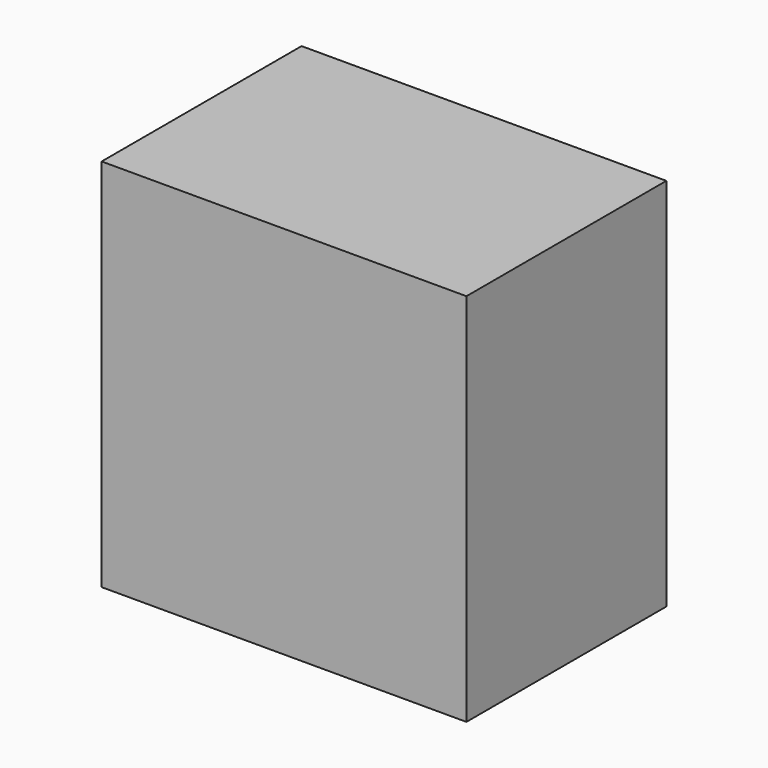
from build123d import *

# Parameters (mm, degrees)
BOX_W     = 730
BOX_H     = 500
BOX_DEPTH = 750


with BuildPart() as part:
    # Box → Box (new body)
    with BuildSketch(Plane(origin=(-365, -217, -376), x_dir=(1, 0, 0), z_dir=(0, 0, 1))):
        with Locations((365, 250)):
            Rectangle(BOX_W, BOX_H)
    extrude(amount=BOX_DEPTH)


solid = part.part
